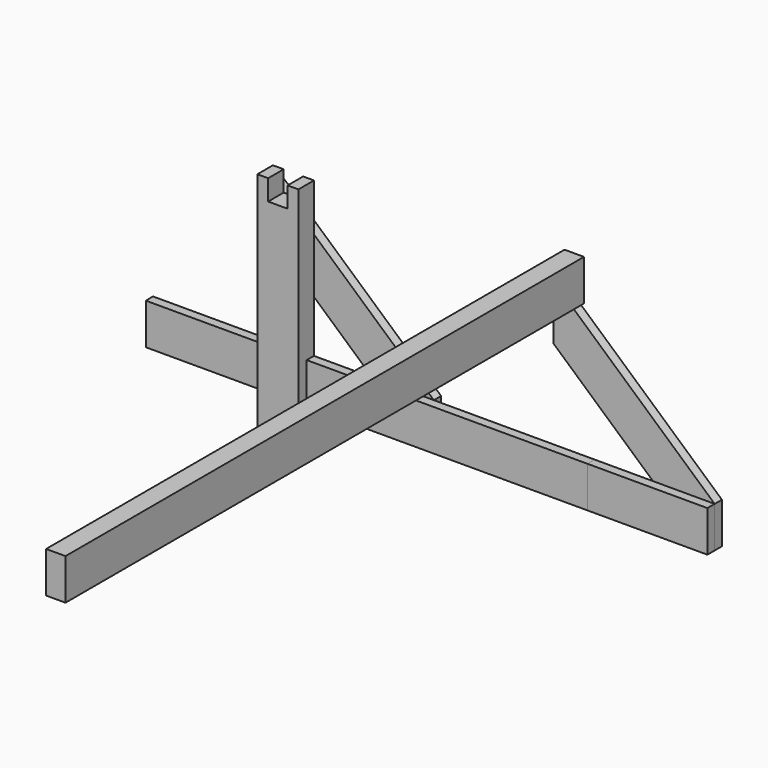
from build123d import *

# Parameters (mm, degrees)
F0_W     = 95
F0_H     = 95
F0_H_2   = 100
F1_DEPTH = 45
F2_W     = 21
F2_H     = 95
F3_DEPTH = 95.001
F0_W_2   = 277.5
F4_DEPTH = 21
F5_DEPTH = 21
F6_DEPTH = 1500
F7_DEPTH = 21
F8_DEPTH = 21


with BuildPart() as f1:
    # F0 (on Front) → F1 (new body)
    with BuildSketch(Plane.XZ):
        with Locations((-325, 147.5)):
            Rectangle(F0_W, F0_H)
        Polygon((-302.5, 552.5), (-302.5, 505), (-347.5, 505), (-277.5, 442.5539568345), (-277.5, 552.5), align=None)
        with Locations((-325, 50)):
            Rectangle(F0_W, F0_H_2)
        Polygon((-277.5, 315.2462286829), (-372.5, 399.9944301218), (-372.5, 195), (-277.5, 195), align=None)
        Polygon((-277.5, 442.5539568345), (-347.5, 505), (-372.5, 527.3021582734), (-372.5, 399.9944301218), (-277.5, 315.2462286829), align=None)
        Polygon((-372.5, 527.3021582734), (-347.5, 505), (-347.5, 552.5), (-372.5, 552.5), align=None)
    extrude(amount=F1_DEPTH)

    # F2 (on face) → F3 (cut, through all)
    with BuildSketch(Plane.YZ.offset(-277.5)):
        with Locations((-10.5, 147.5)):
            Rectangle(F2_W, F2_H)
    extrude(amount=-F3_DEPTH, mode=Mode.SUBTRACT)


with BuildPart() as f4:
    # F0 (on Front) → F4 (new body)
    with BuildSketch(Plane.XZ):
        with Locations((-511.25, 147.5)):
            Rectangle(F0_W_2, F0_H)
        Polygon((-142.707856557, 195), (-277.5, 195), (-277.5, 100), (-36.2159210732, 100), align=None)
        Polygon((650, 195), (507.292143443, 195), (613.7840789268, 100), (650, 100), align=None)
        Polygon((507.292143443, 195), (372.5, 195), (372.5, 100), (613.7840789268, 100), align=None)
        with Locations((-511.25, 147.5)):
            Rectangle(F0_W_2, F0_H)
        Polygon((-142.707856557, 195), (-277.5, 195), (-277.5, 100), (-36.2159210732, 100), align=None)
        Polygon((650, 195), (507.292143443, 195), (613.7840789268, 100), (650, 100), align=None)
        Polygon((507.292143443, 195), (372.5, 195), (372.5, 100), (613.7840789268, 100), align=None)
        Polygon((-142.707856557, 195), (-277.5, 195), (-277.5, 100), (-36.2159210732, 100), align=None)
        with Locations((-511.25, 147.5)):
            Rectangle(F0_W_2, F0_H)
        Polygon((-142.707856557, 195), (-277.5, 195), (-277.5, 100), (-36.2159210732, 100), align=None)
        Polygon((650, 195), (507.292143443, 195), (613.7840789268, 100), (650, 100), align=None)
        Polygon((507.292143443, 195), (372.5, 195), (372.5, 100), (613.7840789268, 100), align=None)
        Polygon((650, 195), (507.292143443, 195), (613.7840789268, 100), (650, 100), align=None)
        with Locations((-511.25, 147.5)):
            Rectangle(F0_W_2, F0_H)
        with Locations((-325, 147.5)):
            Rectangle(F0_W, F0_H)
        with Locations((325, 147.5)):
            Rectangle(F0_W, F0_H)
        with Locations((138.75, 147.5)):
            Rectangle(F0_W_2, F0_H)
        Polygon((0, 100), (0, 195), (-142.707856557, 195), (-36.2159210732, 100), align=None)
    extrude(amount=F4_DEPTH)


with BuildPart() as f5:
    # F0 (on Front) → F5 (new body)
    with BuildSketch(Plane.XZ):
        Polygon((372.5, 315.2462286829), (507.292143443, 195), (650, 195), (372.5, 442.5539568345), align=None)
        Polygon((277.5, 527.3021582734), (277.5, 399.9944301218), (372.5, 315.2462286829), (372.5, 442.5539568345), (302.5, 505), align=None)
        Polygon((650, 195), (507.292143443, 195), (613.7840789268, 100), (650, 100), align=None)
    extrude(amount=-F5_DEPTH)


with BuildPart() as f6:
    # F0 (on Front) → F6 (new body)
    with BuildSketch(Plane.XZ):
        Polygon((302.5, 552.5), (302.5, 505), (347.5, 505), (347.5, 552.5), (347.5, 600), (302.5, 600), align=None)
    extrude(amount=F6_DEPTH)


with BuildPart() as f7:
    # F0 (on Front) → F7 (new body)
    with BuildSketch(Plane.XZ):
        Polygon((-142.707856557, 195), (-277.5, 195), (-277.5, 100), (-36.2159210732, 100), align=None)
        with Locations((325, 147.5)):
            Rectangle(F0_W, F0_H)
        with Locations((-325, 147.5)):
            Rectangle(F0_W, F0_H)
        Polygon((0, 100), (0, 195), (-142.707856557, 195), (-36.2159210732, 100), align=None)
        with Locations((138.75, 147.5)):
            Rectangle(F0_W_2, F0_H)
    extrude(amount=F7_DEPTH)


with BuildPart() as f8:
    # F0 (on Front) → F8 (new body)
    with BuildSketch(Plane.XZ):
        Polygon((0, 195), (-277.5, 442.5539568345), (-277.5, 315.2462286829), (-142.707856557, 195), align=None)
        Polygon((-277.5, 442.5539568345), (-347.5, 505), (-372.5, 527.3021582734), (-372.5, 399.9944301218), (-277.5, 315.2462286829), align=None)
        Polygon((0, 100), (0, 195), (-142.707856557, 195), (-36.2159210732, 100), align=None)
    extrude(amount=-F8_DEPTH)


solid = Compound([f1.part, f4.part, f5.part, f6.part, f7.part, f8.part])
